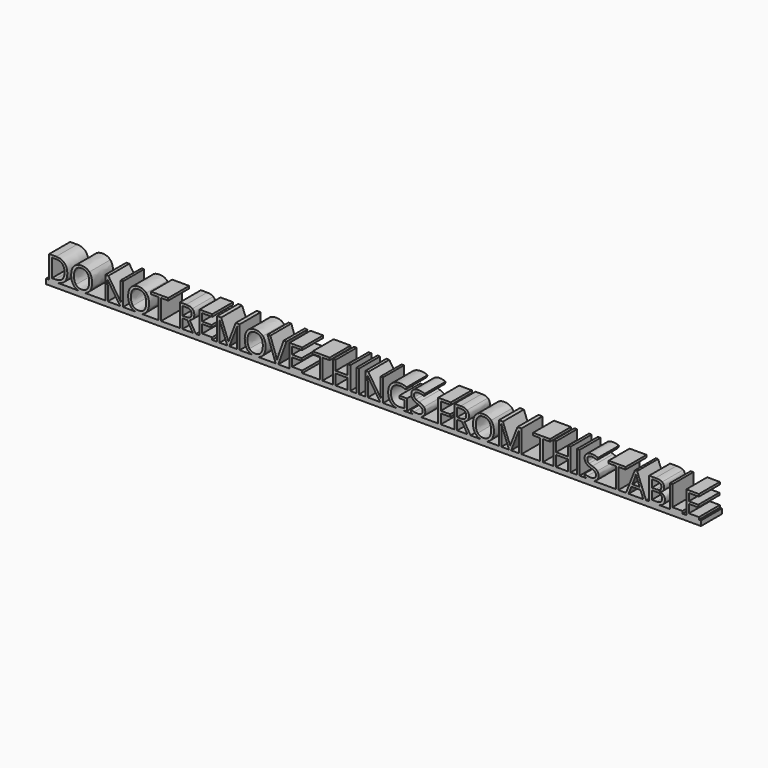
from build123d import *

# Parameters (mm, degrees)
F0_W     = 0.8051676295
F0_H     = 6.9280807897
F1_DEPTH = 8


with BuildPart() as f1:
    # F0 (on Front) → F1 (new body)
    with BuildSketch(Plane.XZ):
        Polygon((-65.6931871598, 7.7123762301), (-65.6931871598, 1.5), (-64.8880195302, 1.5), (-64.8880195302, 7.7123762301), (-62.6938998317, 7.7123762301), (-62.6938998317, 8.4280807897), (-67.8873068583, 8.4280807897), (-67.8873068583, 7.7123762301), align=None)
        Polygon((-53.1304492866, 8.4280807897), (-53.1304492866, 1.5), (-49.2683740466, 1.5), (-49.2683740466, 2.2202535292), (-52.325281657, 2.2202535292), (-52.325281657, 4.7691928612), (-49.4533654794, 4.7691928612), (-49.4533654794, 5.4803484511), (-52.325281657, 5.4803484511), (-52.325281657, 7.7123762301), (-49.2683740466, 7.7123762301), (-49.2683740466, 8.4280807897), align=None)
        with BuildLine():
            Line((-32.3674354425, 8.4280807897), (-29.8836980091, 1.5))
            Line((-29.8836980091, 1.5), (-29.0876283189, 1.5))
            Line((-29.0876283189, 1.5), (-26.5917602996, 8.4280807897))
            Line((-26.5917602996, 8.4280807897), (-27.4575808579, 8.4280807897))
            Line((-27.4575808579, 8.4280807897), (-29.040622299, 3.9731231709))
            add(Edge.make_bspline(
                [(-29.4864213256, 2.4431530425), (-29.3150768018, 3.2104125915), (-29.040622299, 3.9731231709)],
                knots=[0, 0, 0, 1, 1, 1], degree=2))
            add(Edge.make_bspline(
                [(-29.9216060896, 3.945829353), (-29.6471515868, 3.1725045111), (-29.4864213256, 2.4431530425)],
                knots=[0, 0, 0, 1, 1, 1], degree=2))
            Line((-29.9216060896, 3.945829353), (-31.51374547, 8.4280807897))
            Line((-31.51374547, 8.4280807897), (-32.3674354425, 8.4280807897))
        make_face()
        Polygon((-25.6395093178, 8.4280807897), (-25.6395093178, 1.5), (-21.7774340778, 1.5), (-21.7774340778, 2.2202535292), (-24.8343416883, 2.2202535292), (-24.8343416883, 4.7691928612), (-21.9624255106, 4.7691928612), (-21.9624255106, 5.4803484511), (-24.8343416883, 5.4803484511), (-24.8343416883, 7.7123762301), (-21.7774340778, 7.7123762301), (-21.7774340778, 8.4280807897), align=None)
        Polygon((-16.3944866488, 7.7123762301), (-16.3944866488, 1.5), (-15.5893190192, 1.5), (-15.5893190192, 7.7123762301), (-13.3951993207, 7.7123762301), (-13.3951993207, 8.4280807897), (-18.5886063473, 8.4280807897), (-18.5886063473, 7.7123762301), align=None)
        with Locations((-4.7893068887, 4.9640403949)):
            Rectangle(F0_W, F0_H)
        with BuildLine():
            Line((6.8619202702, 1.5), (9.1460810607, 1.5))
            add(Edge.make_bspline(
                [(10.2321490849, 1.7608075937), (9.6976927686, 1.5900171456), (9.1460810607, 1.5)],
                knots=[0, 0, 0, 0.9709878678, 0.9709878678, 0.9709878678], degree=2))
            Line((10.2321490849, 1.7608075937), (10.2321490849, 5.1300777874))
            Line((10.2321490849, 5.1300777874), (7.8772991251, 5.1300777874))
            Line((7.8772991251, 5.1300777874), (7.8772991251, 4.4098242581))
            Line((7.8772991251, 4.4098242581), (9.4254651321, 4.4098242581))
            Line((9.4254651321, 4.4098242581), (9.4254651321, 2.2778738116))
            add(Edge.make_bspline(
                [(8.0183171845, 2.1110782574), (8.7385707137, 2.1110782574), (9.4254651321, 2.2778738116)],
                knots=[0, 0, 0, 1, 1, 1], degree=2))
            add(Edge.make_bspline(
                [(6.0069144339, 2.8358807563), (6.6915343675, 2.1110782574), (8.0183171845, 2.1110782574)],
                knots=[0, 0, 0, 1, 1, 1], degree=2))
            add(Edge.make_bspline(
                [(5.3222945003, 4.9632822332), (5.3222945003, 3.5606832552), (6.0069144339, 2.8358807563)],
                knots=[0, 0, 0, 1, 1, 1], degree=2))
            add(Edge.make_bspline(
                [(6.0334500902, 7.0535337913), (5.3222945003, 6.3006793128), (5.3222945003, 4.9632822332)],
                knots=[0, 0, 0, 1, 1, 1], degree=2))
            add(Edge.make_bspline(
                [(8.0092192452, 7.8063882697), (6.7446056801, 7.8063882697), (6.0334500902, 7.0535337913)],
                knots=[0, 0, 0, 1, 1, 1], degree=2))
            add(Edge.make_bspline(
                [(9.8151601995, 7.4091115862), (8.8765561267, 7.8063882697), (8.0092192452, 7.8063882697)],
                knots=[0, 0, 0, 1, 1, 1], degree=2))
            Line((9.8151601995, 7.4091115862), (10.1275227828, 8.1202671762))
            add(Edge.make_bspline(
                [(8.0607742346, 8.526641799), (9.1707228313, 8.526641799), (10.1275227828, 8.1202671762)],
                knots=[0, 0, 0, 1, 1, 1], degree=2))
            add(Edge.make_bspline(
                [(6.1524814629, 8.0982804895), (6.9675051934, 8.526641799), (8.0607742346, 8.526641799)],
                knots=[0, 0, 0, 1, 1, 1], degree=2))
            add(Edge.make_bspline(
                [(4.9037892917, 6.8571699343), (5.3374577325, 7.66991918), (6.1524814629, 8.0982804895)],
                knots=[0, 0, 0, 1, 1, 1], degree=2))
            add(Edge.make_bspline(
                [(4.470120851, 4.9632822332), (4.470120851, 6.0444206887), (4.9037892917, 6.8571699343)],
                knots=[0, 0, 0, 1, 1, 1], degree=2))
            add(Edge.make_bspline(
                [(5.3465556718, 2.3408012252), (4.470120851, 3.2771308132), (4.470120851, 4.9632822332)],
                knots=[0, 0, 0, 1, 1, 1], degree=2))
            add(Edge.make_bspline(
                [(6.8619202702, 1.5), (5.9430463291, 1.7035469331), (5.3465556718, 2.3408012252)],
                knots=[0.319412416, 0.319412416, 0.319412416, 1, 1, 1], degree=2))
        make_face()
        with BuildLine():
            Line((12.1604551496, 1.5), (14.2327366697, 1.5))
            add(Edge.make_bspline(
                [(15.1397291847, 1.9169888854), (14.7627435489, 1.6257405542), (14.2327366697, 1.5)],
                knots=[0, 0, 0, 0.5682703015, 0.5682703015, 0.5682703015], degree=2))
            add(Edge.make_bspline(
                [(15.8031205932, 3.3438490349), (15.8031205932, 2.4295061335), (15.1397291847, 1.9169888854)],
                knots=[0, 0, 0, 1, 1, 1], degree=2))
            add(Edge.make_bspline(
                [(15.3937133239, 4.4992873281), (15.8031205932, 4.0534883016), (15.8031205932, 3.3438490349)],
                knots=[0, 0, 0, 1, 1, 1], degree=2))
            add(Edge.make_bspline(
                [(13.8940696599, 5.3332650988), (14.9843060547, 4.9450863546), (15.3937133239, 4.4992873281)],
                knots=[0, 0, 0, 1, 1, 1], degree=2))
            add(Edge.make_bspline(
                [(12.9296880923, 5.7570774386), (13.245083322, 5.5652625514), (13.8940696599, 5.3332650988)],
                knots=[0, 0, 0, 1, 1, 1], degree=2))
            add(Edge.make_bspline(
                [(12.481614581, 6.1793734552), (12.6142928627, 5.9488923259), (12.9296880923, 5.7570774386)],
                knots=[0, 0, 0, 1, 1, 1], degree=2))
            add(Edge.make_bspline(
                [(12.3489362993, 6.7692231876), (12.3489362993, 6.4098545846), (12.481614581, 6.1793734552)],
                knots=[0, 0, 0, 1, 1, 1], degree=2))
            add(Edge.make_bspline(
                [(12.7090630639, 7.531933767), (12.3489362993, 7.2574792643), (12.3489362993, 6.7692231876)],
                knots=[0, 0, 0, 1, 1, 1], degree=2))
            add(Edge.make_bspline(
                [(13.7090782271, 7.8063882697), (13.0691898285, 7.8063882697), (12.7090630639, 7.531933767)],
                knots=[0, 0, 0, 1, 1, 1], degree=2))
            add(Edge.make_bspline(
                [(15.3770337685, 7.4470196667), (14.5187948263, 7.8063882697), (13.7090782271, 7.8063882697)],
                knots=[0, 0, 0, 1, 1, 1], degree=2))
            Line((15.3770337685, 7.4470196667), (15.6287434229, 8.1475609941))
            add(Edge.make_bspline(
                [(13.728790429, 8.526641799), (14.7614065414, 8.526641799), (15.6287434229, 8.1475609941)],
                knots=[0, 0, 0, 1, 1, 1], degree=2))
            add(Edge.make_bspline(
                [(12.1358928869, 8.0527907929), (12.7371150434, 8.526641799), (13.728790429, 8.526641799)],
                knots=[0, 0, 0, 1, 1, 1], degree=2))
            add(Edge.make_bspline(
                [(11.5346707304, 6.7783211269), (11.5346707304, 7.5789397868), (12.1358928869, 8.0527907929)],
                knots=[0, 0, 0, 1, 1, 1], degree=2))
            add(Edge.make_bspline(
                [(11.9493851309, 5.5417595415), (11.5346707304, 6.0156105475), (11.5346707304, 6.7783211269)],
                knots=[0, 0, 0, 1, 1, 1], degree=2))
            add(Edge.make_bspline(
                [(13.3299974223, 4.7221868413), (12.3640995315, 5.0679085354), (11.9493851309, 5.5417595415)],
                knots=[0, 0, 0, 1, 1, 1], degree=2))
            add(Edge.make_bspline(
                [(14.3603390499, 4.2816949461), (14.0214408103, 4.4765424798), (13.3299974223, 4.7221868413)],
                knots=[0, 0, 0, 1, 1, 1], degree=2))
            add(Edge.make_bspline(
                [(14.8440461569, 3.8571244446), (14.6992372894, 4.0868474124), (14.3603390499, 4.2816949461)],
                knots=[0, 0, 0, 1, 1, 1], degree=2))
            add(Edge.make_bspline(
                [(14.9888550243, 3.2680328739), (14.9888550243, 3.6274014769), (14.8440461569, 3.8571244446)],
                knots=[0, 0, 0, 1, 1, 1], degree=2))
            add(Edge.make_bspline(
                [(14.5809640783, 2.4166173862), (14.9888550243, 2.7221565149), (14.9888550243, 3.2680328739)],
                knots=[0, 0, 0, 1, 1, 1], degree=2))
            add(Edge.make_bspline(
                [(13.3679055027, 2.1110782574), (14.1730731323, 2.1110782574), (14.5809640783, 2.4166173862)],
                knots=[0, 0, 0, 1, 1, 1], degree=2))
            add(Edge.make_bspline(
                [(12.3731974708, 2.2157045596), (12.8751004564, 2.1110782574), (13.3679055027, 2.1110782574)],
                knots=[0, 0, 0, 1, 1, 1], degree=2))
            add(Edge.make_bspline(
                [(11.4436913372, 2.4992570016), (11.8712944851, 2.3203308617), (12.3731974708, 2.2157045596)],
                knots=[0, 0, 0, 1, 1, 1], degree=2))
            Line((11.4436913372, 2.4992570016), (11.4436913372, 1.7228995133))
            add(Edge.make_bspline(
                [(12.1604551496, 1.5), (11.7440712063, 1.5788817678), (11.4436913372, 1.7228995133)],
                knots=[0.5477225575, 0.5477225575, 0.5477225575, 1, 1, 1], degree=2))
        make_face()
        Polygon((19.7425283173, 1.5), (20.5476959469, 1.5), (20.5476959469, 4.4613792476), (23.4196121245, 4.4613792476), (23.4196121245, 5.1770838072), (20.5476959469, 5.1770838072), (20.5476959469, 7.7123762301), (23.6046035573, 7.7123762301), (23.6046035573, 8.4280807897), (19.7425283173, 8.4280807897), align=None)
        Polygon((50.9166173862, 1.5), (51.7217850157, 1.5), (51.7217850157, 7.7123762301), (53.9159047142, 7.7123762301), (53.9159047142, 8.4280807897), (48.7224976876, 8.4280807897), (48.7224976876, 7.7123762301), (50.9166173862, 7.7123762301), align=None)
        with Locations((62.5217971463, 4.9640403949)):
            Rectangle(F0_W, F0_H)
        with BuildLine():
            Line((65.0907497712, 1.5), (67.1630312913, 1.5))
            add(Edge.make_bspline(
                [(68.0700238063, 1.9169888854), (67.6930381705, 1.6257405542), (67.1630312913, 1.5)],
                knots=[0, 0, 0, 0.5682703015, 0.5682703015, 0.5682703015], degree=2))
            add(Edge.make_bspline(
                [(68.7334152148, 3.3438490349), (68.7334152148, 2.4295061335), (68.0700238063, 1.9169888854)],
                knots=[0, 0, 0, 1, 1, 1], degree=2))
            add(Edge.make_bspline(
                [(68.3240079455, 4.4992873281), (68.7334152148, 4.0534883016), (68.7334152148, 3.3438490349)],
                knots=[0, 0, 0, 1, 1, 1], degree=2))
            add(Edge.make_bspline(
                [(66.8243642815, 5.3332650988), (67.9146006763, 4.9450863546), (68.3240079455, 4.4992873281)],
                knots=[0, 0, 0, 1, 1, 1], degree=2))
            add(Edge.make_bspline(
                [(65.8599827139, 5.7570774386), (66.1753779436, 5.5652625514), (66.8243642815, 5.3332650988)],
                knots=[0, 0, 0, 1, 1, 1], degree=2))
            add(Edge.make_bspline(
                [(65.4119092026, 6.1793734552), (65.5445874843, 5.9488923259), (65.8599827139, 5.7570774386)],
                knots=[0, 0, 0, 1, 1, 1], degree=2))
            add(Edge.make_bspline(
                [(65.2792309209, 6.7692231876), (65.2792309209, 6.4098545846), (65.4119092026, 6.1793734552)],
                knots=[0, 0, 0, 1, 1, 1], degree=2))
            add(Edge.make_bspline(
                [(65.6393576855, 7.531933767), (65.2792309209, 7.2574792643), (65.2792309209, 6.7692231876)],
                knots=[0, 0, 0, 1, 1, 1], degree=2))
            add(Edge.make_bspline(
                [(66.6393728487, 7.8063882697), (65.9994844501, 7.8063882697), (65.6393576855, 7.531933767)],
                knots=[0, 0, 0, 1, 1, 1], degree=2))
            add(Edge.make_bspline(
                [(68.3073283901, 7.4470196667), (67.4490894479, 7.8063882697), (66.6393728487, 7.8063882697)],
                knots=[0, 0, 0, 1, 1, 1], degree=2))
            Line((68.3073283901, 7.4470196667), (68.5590380445, 8.1475609941))
            add(Edge.make_bspline(
                [(66.6590850506, 8.526641799), (67.691701163, 8.526641799), (68.5590380445, 8.1475609941)],
                knots=[0, 0, 0, 1, 1, 1], degree=2))
            add(Edge.make_bspline(
                [(65.0661875085, 8.0527907929), (65.667409665, 8.526641799), (66.6590850506, 8.526641799)],
                knots=[0, 0, 0, 1, 1, 1], degree=2))
            add(Edge.make_bspline(
                [(64.464965352, 6.7783211269), (64.464965352, 7.5789397868), (65.0661875085, 8.0527907929)],
                knots=[0, 0, 0, 1, 1, 1], degree=2))
            add(Edge.make_bspline(
                [(64.8796797525, 5.5417595415), (64.464965352, 6.0156105475), (64.464965352, 6.7783211269)],
                knots=[0, 0, 0, 1, 1, 1], degree=2))
            add(Edge.make_bspline(
                [(66.2602920439, 4.7221868413), (65.2943941531, 5.0679085354), (64.8796797525, 5.5417595415)],
                knots=[0, 0, 0, 1, 1, 1], degree=2))
            add(Edge.make_bspline(
                [(67.2906336715, 4.2816949461), (66.9517354319, 4.4765424798), (66.2602920439, 4.7221868413)],
                knots=[0, 0, 0, 1, 1, 1], degree=2))
            add(Edge.make_bspline(
                [(67.7743407785, 3.8571244446), (67.629531911, 4.0868474124), (67.2906336715, 4.2816949461)],
                knots=[0, 0, 0, 1, 1, 1], degree=2))
            add(Edge.make_bspline(
                [(67.9191496459, 3.2680328739), (67.9191496459, 3.6274014769), (67.7743407785, 3.8571244446)],
                knots=[0, 0, 0, 1, 1, 1], degree=2))
            add(Edge.make_bspline(
                [(67.5112586999, 2.4166173862), (67.9191496459, 2.7221565149), (67.9191496459, 3.2680328739)],
                knots=[0, 0, 0, 1, 1, 1], degree=2))
            add(Edge.make_bspline(
                [(66.2982001243, 2.1110782574), (67.1033677539, 2.1110782574), (67.5112586999, 2.4166173862)],
                knots=[0, 0, 0, 1, 1, 1], degree=2))
            add(Edge.make_bspline(
                [(65.3034920924, 2.2157045596), (65.805395078, 2.1110782574), (66.2982001243, 2.1110782574)],
                knots=[0, 0, 0, 1, 1, 1], degree=2))
            add(Edge.make_bspline(
                [(64.3739859588, 2.4992570016), (64.8015891067, 2.3203308617), (65.3034920924, 2.2157045596)],
                knots=[0, 0, 0, 1, 1, 1], degree=2))
            Line((64.3739859588, 2.4992570016), (64.3739859588, 1.7228995133))
            add(Edge.make_bspline(
                [(65.0907497712, 1.5), (64.6743658279, 1.5788817678), (64.3739859588, 1.7228995133)],
                knots=[0.5477225575, 0.5477225575, 0.5477225575, 1, 1, 1], degree=2))
        make_face()
        Polygon((73.999605756, 1.5), (74.8047733855, 1.5), (74.8047733855, 7.7123762301), (76.998893084, 7.7123762301), (76.998893084, 8.4280807897), (71.8054860574, 8.4280807897), (71.8054860574, 7.7123762301), (73.999605756, 7.7123762301), align=None)
        Polygon((90.4714248889, 1.5), (94.3335001289, 1.5), (94.3335001289, 2.2293514686), (91.2765925185, 2.2293514686), (91.2765925185, 8.4280807897), (90.4714248889, 8.4280807897), align=None)
        Polygon((95.508650624, 1.5), (99.3707258639, 1.5), (99.3707258639, 2.2202535292), (96.3138182535, 2.2202535292), (96.3138182535, 4.7691928612), (99.1857344312, 4.7691928612), (99.1857344312, 5.4803484511), (96.3138182535, 5.4803484511), (96.3138182535, 7.7123762301), (99.3707258639, 7.7123762301), (99.3707258639, 8.4280807897), (95.508650624, 8.4280807897), align=None)
        with BuildLine():
            Line((-99.0477490182, 8.4280807897), (-99.0477490182, 1.5))
            Line((-99.0477490182, 1.5), (-97.1280838223, 1.5))
            add(Edge.make_bspline(
                [(-94.4487406936, 2.4075194468), (-95.3797631503, 1.5), (-97.1280838223, 1.5)],
                knots=[0, 0, 0, 1, 1, 1], degree=2))
            add(Edge.make_bspline(
                [(-93.5177182368, 5.0300004549), (-93.5177182368, 3.3150388937), (-94.4487406936, 2.4075194468)],
                knots=[0, 0, 0, 1, 1, 1], degree=2))
            add(Edge.make_bspline(
                [(-94.4131070979, 7.5326919286), (-93.5177182368, 6.6373030675), (-93.5177182368, 5.0300004549)],
                knots=[0, 0, 0, 1, 1, 1], degree=2))
            add(Edge.make_bspline(
                [(-96.9248965109, 8.4280807897), (-95.308495959, 8.4280807897), (-94.4131070979, 7.5326919286)],
                knots=[0, 0, 0, 1, 1, 1], degree=2))
            Line((-96.9248965109, 8.4280807897), (-99.0477490182, 8.4280807897))
        make_face()
        with BuildLine():
            add(Edge.make_bspline(
                [(-94.3698918862, 5.0011903137), (-94.3698918862, 6.3567832719), (-95.0499628501, 7.0436776903)],
                knots=[0, 0, 0, 1, 1, 1], degree=2))
            add(Edge.make_bspline(
                [(-95.0954525467, 2.9048734628), (-94.3698918862, 3.6137545679), (-94.3698918862, 5.0011903137)],
                knots=[0, 0, 0, 1, 1, 1], degree=2))
            add(Edge.make_bspline(
                [(-97.2615202657, 2.1959923577), (-95.8210132072, 2.1959923577), (-95.0954525467, 2.9048734628)],
                knots=[0, 0, 0, 1, 1, 1], degree=2))
            Line((-97.2615202657, 2.1959923577), (-98.2425813886, 2.1959923577))
            Line((-98.2425813886, 2.1959923577), (-98.2425813886, 7.7305721088))
            Line((-98.2425813886, 7.7305721088), (-97.0719798632, 7.7305721088))
            add(Edge.make_bspline(
                [(-95.0499628501, 7.0436776903), (-95.730033814, 7.7305721088), (-97.0719798632, 7.7305721088)],
                knots=[0, 0, 0, 1, 1, 1], degree=2))
        make_face(mode=Mode.SUBTRACT)
        with BuildLine():
            add(Edge.make_bspline(
                [(-90.0447195094, 1.5), (-90.9342032634, 1.7035469331), (-91.5002501933, 2.3408012252)],
                knots=[0.319412416, 0.319412416, 0.319412416, 1, 1, 1], degree=2))
            Line((-90.0447195094, 1.5), (-88.2565695122, 1.5))
            add(Edge.make_bspline(
                [(-86.8004063746, 2.3574807806), (-87.3755239349, 1.7061990029), (-88.2565695122, 1.5)],
                knots=[0, 0, 0, 0.6833950988, 0.6833950988, 0.6833950988], degree=2))
            add(Edge.make_bspline(
                [(-85.9588469878, 4.9738964958), (-85.9588469878, 3.310489924), (-86.8004063746, 2.3574807806)],
                knots=[0, 0, 0, 1, 1, 1], degree=2))
            add(Edge.make_bspline(
                [(-86.7973737282, 7.5895540493), (-85.9588469878, 6.6418520372), (-85.9588469878, 4.9738964958)],
                knots=[0, 0, 0, 1, 1, 1], degree=2))
            add(Edge.make_bspline(
                [(-89.1294788397, 8.5372560615), (-87.6359004685, 8.5372560615), (-86.7973737282, 7.5895540493)],
                knots=[0, 0, 0, 1, 1, 1], degree=2))
            add(Edge.make_bspline(
                [(-91.4979757085, 7.6062336048), (-90.6639979378, 8.5372560615), (-89.1294788397, 8.5372560615)],
                knots=[0, 0, 0, 1, 1, 1], degree=2))
            add(Edge.make_bspline(
                [(-92.3319534792, 4.9829944351), (-92.3319534792, 6.675211148), (-91.4979757085, 7.6062336048)],
                knots=[0, 0, 0, 1, 1, 1], degree=2))
            add(Edge.make_bspline(
                [(-91.5002501933, 2.3408012252), (-92.3319534792, 3.2771308132), (-92.3319534792, 4.9829944351)],
                knots=[0, 0, 0, 1, 1, 1], degree=2))
        make_face()
        with BuildLine():
            add(Edge.make_bspline(
                [(-91.4797798299, 4.9738964958), (-91.4797798299, 3.5667485481), (-90.8800739966, 2.8389134028)],
                knots=[0, 0, 0, 1, 1, 1], degree=2))
            add(Edge.make_bspline(
                [(-90.8800739966, 7.0891673869), (-91.4797798299, 6.3613322416), (-91.4797798299, 4.9738964958)],
                knots=[0, 0, 0, 1, 1, 1], degree=2))
            add(Edge.make_bspline(
                [(-89.1294788397, 7.8170025323), (-90.2803681633, 7.8170025323), (-90.8800739966, 7.0891673869)],
                knots=[0, 0, 0, 1, 1, 1], degree=2))
            add(Edge.make_bspline(
                [(-87.3978377231, 7.0944745182), (-87.9831384858, 7.8170025323), (-89.1294788397, 7.8170025323)],
                knots=[0, 0, 0, 1, 1, 1], degree=2))
            add(Edge.make_bspline(
                [(-86.8125369604, 4.9738964958), (-86.8125369604, 6.3719465041), (-87.3978377231, 7.0944745182)],
                knots=[0, 0, 0, 1, 1, 1], degree=2))
            add(Edge.make_bspline(
                [(-87.4001122079, 2.8358807563), (-86.8125369604, 3.5606832552), (-86.8125369604, 4.9738964958)],
                knots=[0, 0, 0, 1, 1, 1], degree=2))
            add(Edge.make_bspline(
                [(-89.138576779, 2.1110782574), (-87.9876874555, 2.1110782574), (-87.4001122079, 2.8358807563)],
                knots=[0, 0, 0, 1, 1, 1], degree=2))
            add(Edge.make_bspline(
                [(-90.8800739966, 2.8389134028), (-90.2803681633, 2.1110782574), (-89.138576779, 2.1110782574)],
                knots=[0, 0, 0, 1, 1, 1], degree=2))
        make_face(mode=Mode.SUBTRACT)
        with BuildLine():
            Line((-88.2565695122, 1.5), (-90.0447195094, 1.5))
            add(Edge.make_bspline(
                [(-89.138576779, 1.4044716372), (-89.6272682342, 1.4044716372), (-90.0447195094, 1.5)],
                knots=[0, 0, 0, 0.319412416, 0.319412416, 0.319412416], degree=2))
            add(Edge.make_bspline(
                [(-88.2565695122, 1.5), (-88.6647423956, 1.4044716372), (-89.138576779, 1.4044716372)],
                knots=[0.6833950988, 0.6833950988, 0.6833950988, 1, 1, 1], degree=2))
        make_face()
        with BuildLine():
            Line((-81.8935844365, 8.4280807897), (-81.8935844365, 1.5))
            Line((-81.8935844365, 1.5), (-81.1490697357, 1.5))
            Line((-81.1490697357, 1.5), (-81.1490697357, 5.4378914009))
            add(Edge.make_bspline(
                [(-81.2248858967, 7.3135832234), (-81.1490697357, 6.2900650503), (-81.1490697357, 5.4378914009)],
                knots=[0, 0, 0, 1, 1, 1], degree=2))
            Line((-81.2248858967, 7.3135832234), (-81.1869778162, 7.3135832234))
            Line((-81.1869778162, 7.3135832234), (-77.4007187372, 1.5))
            Line((-77.4007187372, 1.5), (-76.4818268662, 1.5))
            Line((-76.4818268662, 1.5), (-76.4818268662, 8.4280807897))
            Line((-76.4818268662, 8.4280807897), (-77.2354395063, 8.4280807897))
            Line((-77.2354395063, 8.4280807897), (-77.2354395063, 4.4522813083))
            add(Edge.make_bspline(
                [(-77.2111783348, 3.4590895995), (-77.2445374456, 4.1535656341), (-77.2354395063, 4.4522813083)],
                knots=[0, 0, 0, 1, 1, 1], degree=2))
            add(Edge.make_bspline(
                [(-77.1687212846, 2.6372424146), (-77.1778192239, 2.764613565), (-77.2111783348, 3.4590895995)],
                knots=[0, 0, 0, 1, 1, 1], degree=2))
            Line((-77.1687212846, 2.6372424146), (-77.2066293651, 2.6372424146))
            Line((-77.2066293651, 2.6372424146), (-80.9837905048, 8.4280807897))
            Line((-80.9837905048, 8.4280807897), (-81.8935844365, 8.4280807897))
        make_face()
        with BuildLine():
            add(Edge.make_bspline(
                [(-72.6494595358, 1.5), (-73.5389432898, 1.7035469331), (-74.1049902197, 2.3408012252)],
                knots=[0.319412416, 0.319412416, 0.319412416, 1, 1, 1], degree=2))
            Line((-72.6494595358, 1.5), (-70.8613095386, 1.5))
            add(Edge.make_bspline(
                [(-69.405146401, 2.3574807806), (-69.9802639613, 1.7061990029), (-70.8613095386, 1.5)],
                knots=[0, 0, 0, 0.6833950988, 0.6833950988, 0.6833950988], degree=2))
            add(Edge.make_bspline(
                [(-68.5635870142, 4.9738964958), (-68.5635870142, 3.310489924), (-69.405146401, 2.3574807806)],
                knots=[0, 0, 0, 1, 1, 1], degree=2))
            add(Edge.make_bspline(
                [(-69.4021137546, 7.5895540493), (-68.5635870142, 6.6418520372), (-68.5635870142, 4.9738964958)],
                knots=[0, 0, 0, 1, 1, 1], degree=2))
            add(Edge.make_bspline(
                [(-71.7342188661, 8.5372560615), (-70.2406404949, 8.5372560615), (-69.4021137546, 7.5895540493)],
                knots=[0, 0, 0, 1, 1, 1], degree=2))
            add(Edge.make_bspline(
                [(-74.1027157349, 7.6062336048), (-73.2687379642, 8.5372560615), (-71.7342188661, 8.5372560615)],
                knots=[0, 0, 0, 1, 1, 1], degree=2))
            add(Edge.make_bspline(
                [(-74.9366935056, 4.9829944351), (-74.9366935056, 6.675211148), (-74.1027157349, 7.6062336048)],
                knots=[0, 0, 0, 1, 1, 1], degree=2))
            add(Edge.make_bspline(
                [(-74.1049902197, 2.3408012252), (-74.9366935056, 3.2771308132), (-74.9366935056, 4.9829944351)],
                knots=[0, 0, 0, 1, 1, 1], degree=2))
        make_face()
        with BuildLine():
            add(Edge.make_bspline(
                [(-74.0845198563, 4.9738964958), (-74.0845198563, 3.5667485481), (-73.484814023, 2.8389134028)],
                knots=[0, 0, 0, 1, 1, 1], degree=2))
            add(Edge.make_bspline(
                [(-73.484814023, 7.0891673869), (-74.0845198563, 6.3613322416), (-74.0845198563, 4.9738964958)],
                knots=[0, 0, 0, 1, 1, 1], degree=2))
            add(Edge.make_bspline(
                [(-71.7342188661, 7.8170025323), (-72.8851081897, 7.8170025323), (-73.484814023, 7.0891673869)],
                knots=[0, 0, 0, 1, 1, 1], degree=2))
            add(Edge.make_bspline(
                [(-70.0025777495, 7.0944745182), (-70.5878785122, 7.8170025323), (-71.7342188661, 7.8170025323)],
                knots=[0, 0, 0, 1, 1, 1], degree=2))
            add(Edge.make_bspline(
                [(-69.4172769868, 4.9738964958), (-69.4172769868, 6.3719465041), (-70.0025777495, 7.0944745182)],
                knots=[0, 0, 0, 1, 1, 1], degree=2))
            add(Edge.make_bspline(
                [(-70.0048522343, 2.8358807563), (-69.4172769868, 3.5606832552), (-69.4172769868, 4.9738964958)],
                knots=[0, 0, 0, 1, 1, 1], degree=2))
            add(Edge.make_bspline(
                [(-71.7433168054, 2.1110782574), (-70.5924274818, 2.1110782574), (-70.0048522343, 2.8358807563)],
                knots=[0, 0, 0, 1, 1, 1], degree=2))
            add(Edge.make_bspline(
                [(-73.484814023, 2.8389134028), (-72.8851081897, 2.1110782574), (-71.7433168054, 2.1110782574)],
                knots=[0, 0, 0, 1, 1, 1], degree=2))
        make_face(mode=Mode.SUBTRACT)
        with BuildLine():
            Line((-70.8613095386, 1.5), (-72.6494595358, 1.5))
            add(Edge.make_bspline(
                [(-71.7433168054, 1.4044716372), (-72.2320082605, 1.4044716372), (-72.6494595358, 1.5)],
                knots=[0, 0, 0, 0.319412416, 0.319412416, 0.319412416], degree=2))
            add(Edge.make_bspline(
                [(-70.8613095386, 1.5), (-71.269482422, 1.4044716372), (-71.7433168054, 1.4044716372)],
                knots=[0.6833950988, 0.6833950988, 0.6833950988, 1, 1, 1], degree=2))
        make_face()
        with BuildLine():
            add(Edge.make_bspline(
                [(-37.0446740197, 1.5), (-37.9341577737, 1.7035469331), (-38.5002047036, 2.3408012252)],
                knots=[0.319412416, 0.319412416, 0.319412416, 1, 1, 1], degree=2))
            Line((-37.0446740197, 1.5), (-35.2565240225, 1.5))
            add(Edge.make_bspline(
                [(-33.8003608849, 2.3574807806), (-34.3754784452, 1.7061990029), (-35.2565240225, 1.5)],
                knots=[0, 0, 0, 0.6833950988, 0.6833950988, 0.6833950988], degree=2))
            add(Edge.make_bspline(
                [(-32.9588014981, 4.9738964958), (-32.9588014981, 3.310489924), (-33.8003608849, 2.3574807806)],
                knots=[0, 0, 0, 1, 1, 1], degree=2))
            add(Edge.make_bspline(
                [(-33.7973282385, 7.5895540493), (-32.9588014981, 6.6418520372), (-32.9588014981, 4.9738964958)],
                knots=[0, 0, 0, 1, 1, 1], degree=2))
            add(Edge.make_bspline(
                [(-36.12943335, 8.5372560615), (-34.6358549788, 8.5372560615), (-33.7973282385, 7.5895540493)],
                knots=[0, 0, 0, 1, 1, 1], degree=2))
            add(Edge.make_bspline(
                [(-38.4979302188, 7.6062336048), (-37.6639524481, 8.5372560615), (-36.12943335, 8.5372560615)],
                knots=[0, 0, 0, 1, 1, 1], degree=2))
            add(Edge.make_bspline(
                [(-39.3319079895, 4.9829944351), (-39.3319079895, 6.675211148), (-38.4979302188, 7.6062336048)],
                knots=[0, 0, 0, 1, 1, 1], degree=2))
            add(Edge.make_bspline(
                [(-38.5002047036, 2.3408012252), (-39.3319079895, 3.2771308132), (-39.3319079895, 4.9829944351)],
                knots=[0, 0, 0, 1, 1, 1], degree=2))
        make_face()
        with BuildLine():
            add(Edge.make_bspline(
                [(-38.4797343402, 4.9738964958), (-38.4797343402, 3.5667485481), (-37.8800285069, 2.8389134028)],
                knots=[0, 0, 0, 1, 1, 1], degree=2))
            add(Edge.make_bspline(
                [(-37.8800285069, 7.0891673869), (-38.4797343402, 6.3613322416), (-38.4797343402, 4.9738964958)],
                knots=[0, 0, 0, 1, 1, 1], degree=2))
            add(Edge.make_bspline(
                [(-36.12943335, 7.8170025323), (-37.2803226736, 7.8170025323), (-37.8800285069, 7.0891673869)],
                knots=[0, 0, 0, 1, 1, 1], degree=2))
            add(Edge.make_bspline(
                [(-34.3977922334, 7.0944745182), (-34.9830929961, 7.8170025323), (-36.12943335, 7.8170025323)],
                knots=[0, 0, 0, 1, 1, 1], degree=2))
            add(Edge.make_bspline(
                [(-33.8124914707, 4.9738964958), (-33.8124914707, 6.3719465041), (-34.3977922334, 7.0944745182)],
                knots=[0, 0, 0, 1, 1, 1], degree=2))
            add(Edge.make_bspline(
                [(-34.4000667182, 2.8358807563), (-33.8124914707, 3.5606832552), (-33.8124914707, 4.9738964958)],
                knots=[0, 0, 0, 1, 1, 1], degree=2))
            add(Edge.make_bspline(
                [(-36.1385312893, 2.1110782574), (-34.9876419658, 2.1110782574), (-34.4000667182, 2.8358807563)],
                knots=[0, 0, 0, 1, 1, 1], degree=2))
            add(Edge.make_bspline(
                [(-37.8800285069, 2.8389134028), (-37.2803226736, 2.1110782574), (-36.1385312893, 2.1110782574)],
                knots=[0, 0, 0, 1, 1, 1], degree=2))
        make_face(mode=Mode.SUBTRACT)
        with BuildLine():
            Line((-35.2565240225, 1.5), (-37.0446740197, 1.5))
            add(Edge.make_bspline(
                [(-36.1385312893, 1.4044716372), (-36.6272227445, 1.4044716372), (-37.0446740197, 1.5)],
                knots=[0, 0, 0, 0.319412416, 0.319412416, 0.319412416], degree=2))
            add(Edge.make_bspline(
                [(-35.2565240225, 1.5), (-35.6646969059, 1.4044716372), (-36.1385312893, 1.4044716372)],
                knots=[0.6833950988, 0.6833950988, 0.6833950988, 1, 1, 1], degree=2))
        make_face()
        Polygon((-12.3519689457, 8.4280807897), (-12.3519689457, 1.5), (-11.5468013162, 1.5), (-11.5468013162, 4.7600949218), (-7.8970113269, 4.7600949218), (-7.8970113269, 1.5), (-7.0918436974, 1.5), (-7.0918436974, 8.4280807897), (-7.8970113269, 8.4280807897), (-7.8970113269, 5.4803484511), (-11.5468013162, 5.4803484511), (-11.5468013162, 8.4280807897), align=None)
        with BuildLine():
            Line((2.0060956193, 1.5), (2.9249874903, 1.5))
            Line((2.9249874903, 1.5), (2.9249874903, 8.4280807897))
            Line((2.9249874903, 8.4280807897), (2.1713748503, 8.4280807897))
            Line((2.1713748503, 8.4280807897), (2.1713748503, 4.4522813083))
            add(Edge.make_bspline(
                [(2.1956360218, 3.4590895995), (2.1622769109, 4.1535656341), (2.1713748503, 4.4522813083)],
                knots=[0, 0, 0, 1, 1, 1], degree=2))
            add(Edge.make_bspline(
                [(2.2380930719, 2.6372424146), (2.2289951326, 2.764613565), (2.1956360218, 3.4590895995)],
                knots=[0, 0, 0, 1, 1, 1], degree=2))
            Line((2.2380930719, 2.6372424146), (2.2001849914, 2.6372424146))
            Line((2.2001849914, 2.6372424146), (-1.5769761482, 8.4280807897))
            Line((-1.5769761482, 8.4280807897), (-2.4867700799, 8.4280807897))
            Line((-2.4867700799, 8.4280807897), (-2.4867700799, 1.5))
            Line((-2.4867700799, 1.5), (-1.7422553792, 1.5))
            Line((-1.7422553792, 1.5), (-1.7422553792, 5.4378914009))
            add(Edge.make_bspline(
                [(-1.8180715401, 7.3135832234), (-1.7422553792, 6.2900650503), (-1.7422553792, 5.4378914009)],
                knots=[0, 0, 0, 1, 1, 1], degree=2))
            Line((-1.8180715401, 7.3135832234), (-1.7801634596, 7.3135832234))
            Line((-1.7801634596, 7.3135832234), (2.0060956193, 1.5))
        make_face()
        with BuildLine():
            add(Edge.make_bspline(
                [(9.1460810607, 1.5), (9.1295994626, 1.497310379), (9.1131025489, 1.4946928687)],
                knots=[0.9709878678, 0.9709878678, 0.9709878678, 1, 1, 1], degree=2))
            Line((9.1460810607, 1.5), (6.8619202702, 1.5))
            add(Edge.make_bspline(
                [(7.7954176712, 1.4044716372), (7.2931649071, 1.4044716372), (6.8619202702, 1.5)],
                knots=[0, 0, 0, 0.319412416, 0.319412416, 0.319412416], degree=2))
            add(Edge.make_bspline(
                [(9.1131025489, 1.4946928687), (8.5444813416, 1.4044716372), (7.7954176712, 1.4044716372)],
                knots=[0, 0, 0, 1, 1, 1], degree=2))
        make_face()
        with BuildLine():
            add(Edge.make_bspline(
                [(14.2327366697, 1.5), (13.8300766863, 1.4044716372), (13.3390953616, 1.4044716372)],
                knots=[0.5682703015, 0.5682703015, 0.5682703015, 1, 1, 1], degree=2))
            Line((14.2327366697, 1.5), (12.1604551496, 1.5))
            add(Edge.make_bspline(
                [(13.3390953616, 1.4044716372), (12.664709523, 1.4044716372), (12.1604551496, 1.5)],
                knots=[0, 0, 0, 0.5477225575, 0.5477225575, 0.5477225575], degree=2))
        make_face()
        with BuildLine():
            Line((32.6773839342, 1.5), (34.4655339314, 1.5))
            add(Edge.make_bspline(
                [(35.9216970689, 2.3574807806), (35.3465795087, 1.7061990029), (34.4655339314, 1.5)],
                knots=[0, 0, 0, 0.6833950988, 0.6833950988, 0.6833950988], degree=2))
            add(Edge.make_bspline(
                [(36.7632564557, 4.9738964958), (36.7632564557, 3.310489924), (35.9216970689, 2.3574807806)],
                knots=[0, 0, 0, 1, 1, 1], degree=2))
            add(Edge.make_bspline(
                [(35.9247297154, 7.5895540493), (36.7632564557, 6.6418520372), (36.7632564557, 4.9738964958)],
                knots=[0, 0, 0, 1, 1, 1], degree=2))
            add(Edge.make_bspline(
                [(33.5926246039, 8.5372560615), (35.086202975, 8.5372560615), (35.9247297154, 7.5895540493)],
                knots=[0, 0, 0, 1, 1, 1], degree=2))
            add(Edge.make_bspline(
                [(31.2241277351, 7.6062336048), (32.0581055058, 8.5372560615), (33.5926246039, 8.5372560615)],
                knots=[0, 0, 0, 1, 1, 1], degree=2))
            add(Edge.make_bspline(
                [(30.3901499644, 4.9829944351), (30.3901499644, 6.675211148), (31.2241277351, 7.6062336048)],
                knots=[0, 0, 0, 1, 1, 1], degree=2))
            add(Edge.make_bspline(
                [(31.2218532502, 2.3408012252), (30.3901499644, 3.2771308132), (30.3901499644, 4.9829944351)],
                knots=[0, 0, 0, 1, 1, 1], degree=2))
            add(Edge.make_bspline(
                [(32.6773839342, 1.5), (31.7879001802, 1.7035469331), (31.2218532502, 2.3408012252)],
                knots=[0.319412416, 0.319412416, 0.319412416, 1, 1, 1], degree=2))
        make_face()
        with BuildLine():
            add(Edge.make_bspline(
                [(31.2423236137, 4.9738964958), (31.2423236137, 3.5667485481), (31.842029447, 2.8389134028)],
                knots=[0, 0, 0, 1, 1, 1], degree=2))
            add(Edge.make_bspline(
                [(31.842029447, 7.0891673869), (31.2423236137, 6.3613322416), (31.2423236137, 4.9738964958)],
                knots=[0, 0, 0, 1, 1, 1], degree=2))
            add(Edge.make_bspline(
                [(33.5926246039, 7.8170025323), (32.4417352803, 7.8170025323), (31.842029447, 7.0891673869)],
                knots=[0, 0, 0, 1, 1, 1], degree=2))
            add(Edge.make_bspline(
                [(35.3242657205, 7.0944745182), (34.7389649578, 7.8170025323), (33.5926246039, 7.8170025323)],
                knots=[0, 0, 0, 1, 1, 1], degree=2))
            add(Edge.make_bspline(
                [(35.9095664832, 4.9738964958), (35.9095664832, 6.3719465041), (35.3242657205, 7.0944745182)],
                knots=[0, 0, 0, 1, 1, 1], degree=2))
            add(Edge.make_bspline(
                [(35.3219912357, 2.8358807563), (35.9095664832, 3.5606832552), (35.9095664832, 4.9738964958)],
                knots=[0, 0, 0, 1, 1, 1], degree=2))
            add(Edge.make_bspline(
                [(33.5835266645, 2.1110782574), (34.7344159881, 2.1110782574), (35.3219912357, 2.8358807563)],
                knots=[0, 0, 0, 1, 1, 1], degree=2))
            add(Edge.make_bspline(
                [(31.842029447, 2.8389134028), (32.4417352803, 2.1110782574), (33.5835266645, 2.1110782574)],
                knots=[0, 0, 0, 1, 1, 1], degree=2))
        make_face(mode=Mode.SUBTRACT)
        with BuildLine():
            add(Edge.make_bspline(
                [(34.4655339314, 1.5), (34.057361048, 1.4044716372), (33.5835266645, 1.4044716372)],
                knots=[0.6833950988, 0.6833950988, 0.6833950988, 1, 1, 1], degree=2))
            Line((34.4655339314, 1.5), (32.6773839342, 1.5))
            add(Edge.make_bspline(
                [(33.5835266645, 1.4044716372), (33.0948352094, 1.4044716372), (32.6773839342, 1.5)],
                knots=[0, 0, 0, 0.319412416, 0.319412416, 0.319412416], degree=2))
        make_face()
        Polygon((59.414092708, 1.5), (60.2192603375, 1.5), (60.2192603375, 8.4280807897), (59.414092708, 8.4280807897), (59.414092708, 5.4803484511), (55.7643027188, 5.4803484511), (55.7643027188, 8.4280807897), (54.9591350892, 8.4280807897), (54.9591350892, 1.5), (55.7643027188, 1.5), (55.7643027188, 4.7600949218), (59.414092708, 4.7600949218), align=None)
        with BuildLine():
            add(Edge.make_bspline(
                [(67.1630312913, 1.5), (66.7603713079, 1.4044716372), (66.2693899832, 1.4044716372)],
                knots=[0.5682703015, 0.5682703015, 0.5682703015, 1, 1, 1], degree=2))
            Line((67.1630312913, 1.5), (65.0907497712, 1.5))
            add(Edge.make_bspline(
                [(66.2693899832, 1.4044716372), (65.5950041446, 1.4044716372), (65.0907497712, 1.5)],
                knots=[0, 0, 0, 0.5477225575, 0.5477225575, 0.5477225575], degree=2))
        make_face()
        with BuildLine():
            Line((-59.1290239427, 8.4280807897), (-59.1290239427, 1.5))
            Line((-59.1290239427, 1.5), (-58.3238563132, 1.5))
            Line((-58.3238563132, 1.5), (-58.3238563132, 4.381014117))
            Line((-58.3238563132, 4.381014117), (-56.8772839618, 4.381014117))
            Line((-56.8772839618, 4.381014117), (-55.2002304811, 1.5))
            Line((-55.2002304811, 1.5), (-54.2479794993, 1.5))
            Line((-54.2479794993, 1.5), (-56.1297366147, 4.6130115695))
            add(Edge.make_bspline(
                [(-54.736235576, 6.4705075134), (-54.736235576, 5.0967186766), (-56.1297366147, 4.6130115695)],
                knots=[0, 0, 0, 1, 1, 1], degree=2))
            add(Edge.make_bspline(
                [(-55.3450393486, 7.939824713), (-54.736235576, 7.4515686364), (-54.736235576, 6.4705075134)],
                knots=[0, 0, 0, 1, 1, 1], degree=2))
            add(Edge.make_bspline(
                [(-57.2290709488, 8.4280807897), (-55.9538431212, 8.4280807897), (-55.3450393486, 7.939824713)],
                knots=[0, 0, 0, 1, 1, 1], degree=2))
            Line((-57.2290709488, 8.4280807897), (-59.1290239427, 8.4280807897))
        make_face()
        with BuildLine():
            Line((-57.2184566862, 5.072457505), (-58.3238563132, 5.072457505))
            Line((-58.3238563132, 5.072457505), (-58.3238563132, 7.7214741694))
            Line((-58.3238563132, 7.7214741694), (-57.2760769686, 7.7214741694))
            add(Edge.make_bspline(
                [(-55.9750716463, 7.4182095255), (-56.3799299459, 7.7214741694), (-57.2760769686, 7.7214741694)],
                knots=[0, 0, 0, 1, 1, 1], degree=2))
            add(Edge.make_bspline(
                [(-55.5702133467, 6.4280504632), (-55.5702133467, 7.1149448817), (-55.9750716463, 7.4182095255)],
                knots=[0, 0, 0, 1, 1, 1], degree=2))
            add(Edge.make_bspline(
                [(-55.9682481918, 5.4113557446), (-55.5702133467, 5.7502539841), (-55.5702133467, 6.4280504632)],
                knots=[0, 0, 0, 1, 1, 1], degree=2))
            add(Edge.make_bspline(
                [(-57.2184566862, 5.072457505), (-56.3662830369, 5.072457505), (-55.9682481918, 5.4113557446)],
                knots=[0, 0, 0, 1, 1, 1], degree=2))
        make_face(mode=Mode.SUBTRACT)
        with BuildLine():
            Line((-47.7338549485, 8.4280807897), (-47.7338549485, 1.5))
            Line((-47.7338549485, 1.5), (-46.9893402478, 1.5))
            Line((-46.9893402478, 1.5), (-46.9893402478, 5.9064352757))
            add(Edge.make_bspline(
                [(-47.0560584694, 7.6411090388), (-46.9893402478, 6.9117575702), (-46.9893402478, 5.9064352757)],
                knots=[0, 0, 0, 1, 1, 1], degree=2))
            Line((-47.0560584694, 7.6411090388), (-47.0181503889, 7.6411090388))
            Line((-47.0181503889, 7.6411090388), (-44.6678493988, 1.5))
            Line((-44.6678493988, 1.5), (-44.0188630609, 1.5))
            Line((-44.0188630609, 1.5), (-41.6488498688, 7.6320110995))
            Line((-41.6488498688, 7.6320110995), (-41.6109417884, 7.6320110995))
            add(Edge.make_bspline(
                [(-41.67766001, 5.9640555581), (-41.67766001, 6.7313151071), (-41.6109417884, 7.6320110995)],
                knots=[0, 0, 0, 1, 1, 1], degree=2))
            Line((-41.67766001, 5.9640555581), (-41.67766001, 1.5))
            Line((-41.67766001, 1.5), (-40.8724923805, 1.5))
            Line((-40.8724923805, 1.5), (-40.8724923805, 8.4280807897))
            Line((-40.8724923805, 8.4280807897), (-42.0764530167, 8.4280807897))
            Line((-42.0764530167, 8.4280807897), (-44.2887685939, 2.7130585756))
            Line((-44.2887685939, 2.7130585756), (-44.3266766744, 2.7130585756))
            Line((-44.3266766744, 2.7130585756), (-46.520796373, 8.4280807897))
            Line((-46.520796373, 8.4280807897), (-47.7338549485, 8.4280807897))
        make_face()
        with BuildLine():
            Line((28.6797373728, 1.5), (29.6319883546, 1.5))
            Line((29.6319883546, 1.5), (27.7502312393, 4.6130115695))
            add(Edge.make_bspline(
                [(29.143732278, 6.4705075134), (29.143732278, 5.0967186766), (27.7502312393, 4.6130115695)],
                knots=[0, 0, 0, 1, 1, 1], degree=2))
            add(Edge.make_bspline(
                [(28.5349285054, 7.939824713), (29.143732278, 7.4515686364), (29.143732278, 6.4705075134)],
                knots=[0, 0, 0, 1, 1, 1], degree=2))
            add(Edge.make_bspline(
                [(26.6508969052, 8.4280807897), (27.9261247327, 8.4280807897), (28.5349285054, 7.939824713)],
                knots=[0, 0, 0, 1, 1, 1], degree=2))
            Line((26.6508969052, 8.4280807897), (24.7509439112, 8.4280807897))
            Line((24.7509439112, 8.4280807897), (24.7509439112, 1.5))
            Line((24.7509439112, 1.5), (25.5561115407, 1.5))
            Line((25.5561115407, 1.5), (25.5561115407, 4.381014117))
            Line((25.5561115407, 4.381014117), (27.0026838921, 4.381014117))
            Line((27.0026838921, 4.381014117), (28.6797373728, 1.5))
        make_face()
        with BuildLine():
            Line((26.6615111677, 5.072457505), (25.5561115407, 5.072457505))
            Line((25.5561115407, 5.072457505), (25.5561115407, 7.7214741694))
            Line((25.5561115407, 7.7214741694), (26.6038908854, 7.7214741694))
            add(Edge.make_bspline(
                [(27.9048962077, 7.4182095255), (27.5000379081, 7.7214741694), (26.6038908854, 7.7214741694)],
                knots=[0, 0, 0, 1, 1, 1], degree=2))
            add(Edge.make_bspline(
                [(28.3097545073, 6.4280504632), (28.3097545073, 7.1149448817), (27.9048962077, 7.4182095255)],
                knots=[0, 0, 0, 1, 1, 1], degree=2))
            add(Edge.make_bspline(
                [(27.9117196622, 5.4113557446), (28.3097545073, 5.7502539841), (28.3097545073, 6.4280504632)],
                knots=[0, 0, 0, 1, 1, 1], degree=2))
            add(Edge.make_bspline(
                [(26.6615111677, 5.072457505), (27.5136848171, 5.072457505), (27.9117196622, 5.4113557446)],
                knots=[0, 0, 0, 1, 1, 1], degree=2))
        make_face(mode=Mode.SUBTRACT)
        with BuildLine():
            Line((44.3630684317, 1.5), (45.1682360612, 1.5))
            Line((45.1682360612, 1.5), (45.1682360612, 8.4280807897))
            Line((45.1682360612, 8.4280807897), (43.9642754249, 8.4280807897))
            Line((43.9642754249, 8.4280807897), (41.7519598478, 2.7130585756))
            Line((41.7519598478, 2.7130585756), (41.7140517673, 2.7130585756))
            Line((41.7140517673, 2.7130585756), (39.5199320687, 8.4280807897))
            Line((39.5199320687, 8.4280807897), (38.3068734932, 8.4280807897))
            Line((38.3068734932, 8.4280807897), (38.3068734932, 1.5))
            Line((38.3068734932, 1.5), (39.0513881939, 1.5))
            Line((39.0513881939, 1.5), (39.0513881939, 5.9064352757))
            add(Edge.make_bspline(
                [(38.9846699723, 7.6411090388), (39.0513881939, 6.9117575702), (39.0513881939, 5.9064352757)],
                knots=[0, 0, 0, 1, 1, 1], degree=2))
            Line((38.9846699723, 7.6411090388), (39.0225780527, 7.6411090388))
            Line((39.0225780527, 7.6411090388), (41.3728790429, 1.5))
            Line((41.3728790429, 1.5), (42.0218653808, 1.5))
            Line((42.0218653808, 1.5), (44.3918785728, 7.6320110995))
            Line((44.3918785728, 7.6320110995), (44.4297866533, 7.6320110995))
            add(Edge.make_bspline(
                [(44.3630684317, 5.9640555581), (44.3630684317, 6.7313151071), (44.4297866533, 7.6320110995)],
                knots=[0, 0, 0, 1, 1, 1], degree=2))
            Line((44.3630684317, 5.9640555581), (44.3630684317, 1.5))
        make_face()
        Polygon((82.3970037453, 1.5), (83.230981516, 1.5), (80.5061486907, 8.4568909309), (79.8283522116, 8.4568909309), (77.0898724772, 1.5), (77.9056543693, 1.5), (78.7578280186, 3.7032176379), (81.5342158334, 3.7032176379), align=None)
        with BuildLine():
            Line((80.4773385495, 6.5751338155), (81.2840225022, 4.4280201368))
            Line((81.2840225022, 4.4280201368), (79.0428967839, 4.4280201368))
            Line((79.0428967839, 4.4280201368), (79.8571623527, 6.5751338155))
            add(Edge.make_bspline(
                [(80.155878027, 7.5743908171), (80.0512517248, 7.1194938513), (79.8571623527, 6.5751338155)],
                knots=[0, 0, 0, 1, 1, 1], degree=2))
            add(Edge.make_bspline(
                [(80.4773385495, 6.5751338155), (80.3211572579, 6.9830247616), (80.155878027, 7.5743908171)],
                knots=[0, 0, 0, 1, 1, 1], degree=2))
        make_face(mode=Mode.SUBTRACT)
        with BuildLine():
            Line((84.1832324978, 1.5), (86.6002517097, 1.5))
            add(Edge.make_bspline(
                [(88.3561539978, 2.0216151875), (87.7283961849, 1.5), (86.6002517097, 1.5)],
                knots=[0, 0, 0, 1, 1, 1], degree=2))
            add(Edge.make_bspline(
                [(88.9839118106, 3.4712201853), (88.9839118106, 2.543230375), (88.3561539978, 2.0216151875)],
                knots=[0, 0, 0, 1, 1, 1], degree=2))
            add(Edge.make_bspline(
                [(87.4054193392, 5.1300777874), (88.9839118106, 4.8601722543), (88.9839118106, 3.4712201853)],
                knots=[0, 0, 0, 1, 1, 1], degree=2))
            Line((87.4054193392, 5.1300777874), (87.4054193392, 5.1770838072))
            add(Edge.make_bspline(
                [(88.4084671489, 5.6956663482), (88.0650199397, 5.2953570183), (87.4054193392, 5.1770838072)],
                knots=[0, 0, 0, 1, 1, 1], degree=2))
            add(Edge.make_bspline(
                [(88.7519143581, 6.7131192285), (88.7519143581, 6.0959756782), (88.4084671489, 5.6956663482)],
                knots=[0, 0, 0, 1, 1, 1], degree=2))
            add(Edge.make_bspline(
                [(88.1355289694, 8.015640874), (88.7519143581, 7.6032009583), (88.7519143581, 6.7131192285)],
                knots=[0, 0, 0, 1, 1, 1], degree=2))
            add(Edge.make_bspline(
                [(86.1408057742, 8.4280807897), (87.5191435806, 8.4280807897), (88.1355289694, 8.015640874)],
                knots=[0, 0, 0, 1, 1, 1], degree=2))
            Line((86.1408057742, 8.4280807897), (84.1832324978, 8.4280807897))
            Line((84.1832324978, 8.4280807897), (84.1832324978, 1.5))
        make_face()
        with BuildLine():
            Line((84.9884001274, 2.1868944184), (84.9884001274, 4.7798071237))
            Line((84.9884001274, 4.7798071237), (86.3682542571, 4.7798071237))
            add(Edge.make_bspline(
                [(87.687455458, 4.4765424798), (87.2537870172, 4.7798071237), (86.3682542571, 4.7798071237)],
                knots=[0, 0, 0, 1, 1, 1], degree=2))
            add(Edge.make_bspline(
                [(88.1211238988, 3.5288404676), (88.1211238988, 4.1732778359), (87.687455458, 4.4765424798)],
                knots=[0, 0, 0, 1, 1, 1], degree=2))
            add(Edge.make_bspline(
                [(87.6973115589, 2.5113875874), (88.1211238988, 2.8358807563), (88.1211238988, 3.5288404676)],
                knots=[0, 0, 0, 1, 1, 1], degree=2))
            add(Edge.make_bspline(
                [(86.4349724787, 2.1868944184), (87.2734992191, 2.1868944184), (87.6973115589, 2.5113875874)],
                knots=[0, 0, 0, 1, 1, 1], degree=2))
            Line((86.4349724787, 2.1868944184), (84.9884001274, 2.1868944184))
        make_face(mode=Mode.SUBTRACT)
        with BuildLine():
            Line((86.3151829444, 5.4621525724), (84.9884001274, 5.4621525724))
            Line((84.9884001274, 5.4621525724), (84.9884001274, 7.7305721088))
            Line((84.9884001274, 7.7305721088), (86.174164885, 7.7305721088))
            add(Edge.make_bspline(
                [(87.500947702, 7.4727971614), (87.0839588167, 7.7305721088), (86.174164885, 7.7305721088)],
                knots=[0, 0, 0, 1, 1, 1], degree=2))
            add(Edge.make_bspline(
                [(87.9179365874, 6.6312377746), (87.9179365874, 7.2150222141), (87.500947702, 7.4727971614)],
                knots=[0, 0, 0, 1, 1, 1], degree=2))
            add(Edge.make_bspline(
                [(87.5434047522, 5.7297836207), (87.9179365874, 5.9974146689), (87.9179365874, 6.6312377746)],
                knots=[0, 0, 0, 1, 1, 1], degree=2))
            add(Edge.make_bspline(
                [(86.3151829444, 5.4621525724), (87.168872917, 5.4621525724), (87.5434047522, 5.7297836207)],
                knots=[0, 0, 0, 1, 1, 1], degree=2))
        make_face(mode=Mode.SUBTRACT)
        with BuildLine():
            Line((100, 0), (100, 1.5))
            Line((100, 1.5), (99.3707258639, 1.5))
            Line((99.3707258639, 1.5), (95.508650624, 1.5))
            Line((95.508650624, 1.5), (94.3335001289, 1.5))
            Line((94.3335001289, 1.5), (90.4714248889, 1.5))
            Line((90.4714248889, 1.5), (86.6002517097, 1.5))
            Line((86.6002517097, 1.5), (84.1832324978, 1.5))
            Line((84.1832324978, 1.5), (83.230981516, 1.5))
            Line((83.230981516, 1.5), (82.3970037453, 1.5))
            Line((82.3970037453, 1.5), (77.9056543693, 1.5))
            Line((77.9056543693, 1.5), (77.0898724772, 1.5))
            Line((77.0898724772, 1.5), (74.8047733855, 1.5))
            Line((74.8047733855, 1.5), (73.999605756, 1.5))
            Line((73.999605756, 1.5), (67.1630312913, 1.5))
            add(Edge.make_bspline(
                [(67.1630312913, 1.5), (66.7603713079, 1.4044716372), (66.2693899832, 1.4044716372)],
                knots=[0.5682703015, 0.5682703015, 0.5682703015, 1, 1, 1], degree=2))
            add(Edge.make_bspline(
                [(66.2693899832, 1.4044716372), (65.5950041446, 1.4044716372), (65.0907497712, 1.5)],
                knots=[0, 0, 0, 0.5477225575, 0.5477225575, 0.5477225575], degree=2))
            Line((65.0907497712, 1.5), (62.924380961, 1.5))
            Line((62.924380961, 1.5), (62.1192133315, 1.5))
            Line((62.1192133315, 1.5), (60.2192603375, 1.5))
            Line((60.2192603375, 1.5), (59.414092708, 1.5))
            Line((59.414092708, 1.5), (55.7643027188, 1.5))
            Line((55.7643027188, 1.5), (54.9591350892, 1.5))
            Line((54.9591350892, 1.5), (51.7217850157, 1.5))
            Line((51.7217850157, 1.5), (50.9166173862, 1.5))
            Line((50.9166173862, 1.5), (45.1682360612, 1.5))
            Line((45.1682360612, 1.5), (44.3630684317, 1.5))
            Line((44.3630684317, 1.5), (42.0218653808, 1.5))
            Line((42.0218653808, 1.5), (41.3728790429, 1.5))
            Line((41.3728790429, 1.5), (39.0513881939, 1.5))
            Line((39.0513881939, 1.5), (38.3068734932, 1.5))
            Line((38.3068734932, 1.5), (34.4655339314, 1.5))
            add(Edge.make_bspline(
                [(34.4655339314, 1.5), (34.057361048, 1.4044716372), (33.5835266645, 1.4044716372)],
                knots=[0.6833950988, 0.6833950988, 0.6833950988, 1, 1, 1], degree=2))
            add(Edge.make_bspline(
                [(33.5835266645, 1.4044716372), (33.0948352094, 1.4044716372), (32.6773839342, 1.5)],
                knots=[0, 0, 0, 0.319412416, 0.319412416, 0.319412416], degree=2))
            Line((32.6773839342, 1.5), (29.6319883546, 1.5))
            Line((29.6319883546, 1.5), (28.6797373728, 1.5))
            Line((28.6797373728, 1.5), (25.5561115407, 1.5))
            Line((25.5561115407, 1.5), (24.7509439112, 1.5))
            Line((24.7509439112, 1.5), (20.5476959469, 1.5))
            Line((20.5476959469, 1.5), (19.7425283173, 1.5))
            Line((19.7425283173, 1.5), (14.2327366697, 1.5))
            add(Edge.make_bspline(
                [(14.2327366697, 1.5), (13.8300766863, 1.4044716372), (13.3390953616, 1.4044716372)],
                knots=[0.5682703015, 0.5682703015, 0.5682703015, 1, 1, 1], degree=2))
            add(Edge.make_bspline(
                [(13.3390953616, 1.4044716372), (12.664709523, 1.4044716372), (12.1604551496, 1.5)],
                knots=[0, 0, 0, 0.5477225575, 0.5477225575, 0.5477225575], degree=2))
            Line((12.1604551496, 1.5), (9.1460810607, 1.5))
            add(Edge.make_bspline(
                [(9.1460810607, 1.5), (9.1295994626, 1.497310379), (9.1131025489, 1.4946928687)],
                knots=[0.9709878678, 0.9709878678, 0.9709878678, 1, 1, 1], degree=2))
            add(Edge.make_bspline(
                [(9.1131025489, 1.4946928687), (8.5444813416, 1.4044716372), (7.7954176712, 1.4044716372)],
                knots=[0, 0, 0, 1, 1, 1], degree=2))
            add(Edge.make_bspline(
                [(7.7954176712, 1.4044716372), (7.2931649071, 1.4044716372), (6.8619202702, 1.5)],
                knots=[0, 0, 0, 0.319412416, 0.319412416, 0.319412416], degree=2))
            Line((6.8619202702, 1.5), (2.9249874903, 1.5))
            Line((2.9249874903, 1.5), (2.0060956193, 1.5))
            Line((2.0060956193, 1.5), (-1.7422553792, 1.5))
            Line((-1.7422553792, 1.5), (-2.4867700799, 1.5))
            Line((-2.4867700799, 1.5), (-4.3867230739, 1.5))
            Line((-4.3867230739, 1.5), (-5.1918907034, 1.5))
            Line((-5.1918907034, 1.5), (-7.0918436974, 1.5))
            Line((-7.0918436974, 1.5), (-7.8970113269, 1.5))
            Line((-7.8970113269, 1.5), (-11.5468013162, 1.5))
            Line((-11.5468013162, 1.5), (-12.3519689457, 1.5))
            Line((-12.3519689457, 1.5), (-15.5893190192, 1.5))
            Line((-15.5893190192, 1.5), (-16.3944866488, 1.5))
            Line((-16.3944866488, 1.5), (-21.7774340778, 1.5))
            Line((-21.7774340778, 1.5), (-25.6395093178, 1.5))
            Line((-25.6395093178, 1.5), (-29.0876283189, 1.5))
            Line((-29.0876283189, 1.5), (-29.8836980091, 1.5))
            Line((-29.8836980091, 1.5), (-35.2565240225, 1.5))
            add(Edge.make_bspline(
                [(-35.2565240225, 1.5), (-35.6646969059, 1.4044716372), (-36.1385312893, 1.4044716372)],
                knots=[0.6833950988, 0.6833950988, 0.6833950988, 1, 1, 1], degree=2))
            add(Edge.make_bspline(
                [(-36.1385312893, 1.4044716372), (-36.6272227445, 1.4044716372), (-37.0446740197, 1.5)],
                knots=[0, 0, 0, 0.319412416, 0.319412416, 0.319412416], degree=2))
            Line((-37.0446740197, 1.5), (-40.8724923805, 1.5))
            Line((-40.8724923805, 1.5), (-41.67766001, 1.5))
            Line((-41.67766001, 1.5), (-44.0188630609, 1.5))
            Line((-44.0188630609, 1.5), (-44.6678493988, 1.5))
            Line((-44.6678493988, 1.5), (-46.9893402478, 1.5))
            Line((-46.9893402478, 1.5), (-47.7338549485, 1.5))
            Line((-47.7338549485, 1.5), (-49.2683740466, 1.5))
            Line((-49.2683740466, 1.5), (-53.1304492866, 1.5))
            Line((-53.1304492866, 1.5), (-54.2479794993, 1.5))
            Line((-54.2479794993, 1.5), (-55.2002304811, 1.5))
            Line((-55.2002304811, 1.5), (-58.3238563132, 1.5))
            Line((-58.3238563132, 1.5), (-59.1290239427, 1.5))
            Line((-59.1290239427, 1.5), (-64.8880195302, 1.5))
            Line((-64.8880195302, 1.5), (-65.6931871598, 1.5))
            Line((-65.6931871598, 1.5), (-70.8613095386, 1.5))
            add(Edge.make_bspline(
                [(-70.8613095386, 1.5), (-71.269482422, 1.4044716372), (-71.7433168054, 1.4044716372)],
                knots=[0.6833950988, 0.6833950988, 0.6833950988, 1, 1, 1], degree=2))
            add(Edge.make_bspline(
                [(-71.7433168054, 1.4044716372), (-72.2320082605, 1.4044716372), (-72.6494595358, 1.5)],
                knots=[0, 0, 0, 0.319412416, 0.319412416, 0.319412416], degree=2))
            Line((-72.6494595358, 1.5), (-76.4818268662, 1.5))
            Line((-76.4818268662, 1.5), (-77.4007187372, 1.5))
            Line((-77.4007187372, 1.5), (-81.1490697357, 1.5))
            Line((-81.1490697357, 1.5), (-81.8935844365, 1.5))
            Line((-81.8935844365, 1.5), (-88.2565695122, 1.5))
            add(Edge.make_bspline(
                [(-88.2565695122, 1.5), (-88.6647423956, 1.4044716372), (-89.138576779, 1.4044716372)],
                knots=[0.6833950988, 0.6833950988, 0.6833950988, 1, 1, 1], degree=2))
            add(Edge.make_bspline(
                [(-89.138576779, 1.4044716372), (-89.6272682342, 1.4044716372), (-90.0447195094, 1.5)],
                knots=[0, 0, 0, 0.319412416, 0.319412416, 0.319412416], degree=2))
            Line((-90.0447195094, 1.5), (-97.1280838223, 1.5))
            Line((-97.1280838223, 1.5), (-99.0477490182, 1.5))
            Line((-99.0477490182, 1.5), (-100, 1.5))
            Line((-100, 1.5), (-100, 0))
            Line((-100, 0), (100, 0))
        make_face()
    extrude(amount=F1_DEPTH)


solid = f1.part
